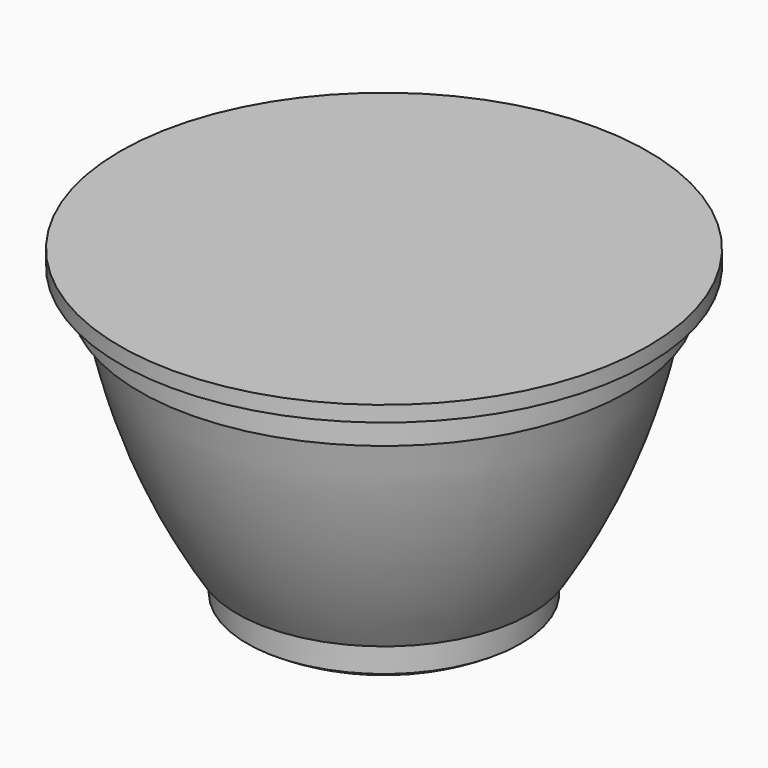
from build123d import *


with BuildPart() as f1:
    # F0 (on Front) → F1 (revolve)
    with BuildSketch(Plane.XZ):
        with BuildLine():
            Line((0, 35), (0, 0))
            Line((0, 0), (3, 0))
            ThreePointArc((3, 0), (3.707107, 0.292893), (4, 1))
            Line((4, 1), (4, 1.188615))
            ThreePointArc((4, 1.188615), (9.224287, 1.796528), (14, 4))
            Line((14, 4), (14, 7))
            Line((14, 7), (15, 7))
            ThreePointArc((15, 7), (20.646883, 18.184103), (24, 30.255891))
            Line((24, 30.255891), (25, 30.255891))
            Line((25, 30.255891), (25, 33.403564))
            Line((25, 33.403564), (27, 33.403564))
            Line((27, 33.403564), (27, 35))
            Line((27, 35), (0, 35))
        make_face()
    revolve(axis=Axis((0, 0, 17.5), (0, 0, 1)))


solid = f1.part
